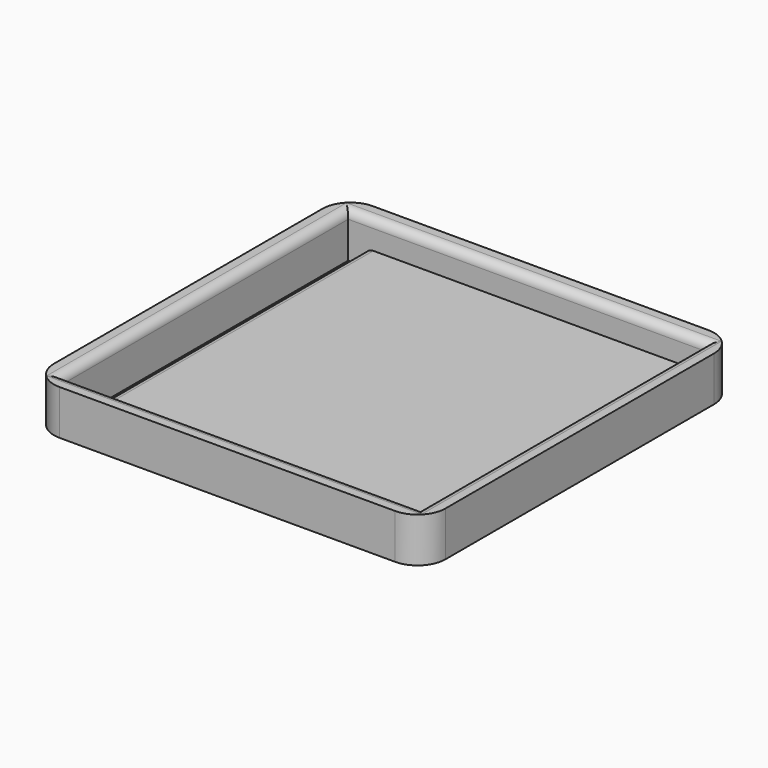
from build123d import *

# Parameters (mm, degrees)
F1_DEPTH = 3
F2_DEPTH = 8
F3_R     = 5
F4_R     = 1.5


with BuildPart() as f1:
    # F0 (on Top) → F1 (new body)
    with BuildSketch(Plane.XY):
        Polygon((45, 16), (16, 16), (-13, 16), (-13, -16), (-13, -48), (16, -48), (45, -48), (45, -16), align=None)
    extrude(amount=F1_DEPTH)

    # F0 (on Top) → F2 (join)
    with BuildSketch(Plane.XY):
        Polygon((-13, 16), (16, 16), (16, 19), (-19, 19), (-19, -16), (-16, -16), (-16, 16), align=None)
        Polygon((16, 19), (16, 16), (45, 16), (48, 16), (48, -16), (48, -48), (45, -48), (16, -48), (-13, -48), (-16, -48), (-16, -16), (-19, -16), (-19, -51), (16, -51), (51, -51), (51, -16), (51, 19), align=None)
    extrude(amount=F2_DEPTH)

    # F3
    f3_edges = [f1.edges().sort_by_distance(p)[0] for p in [
        (-19, 19, 4),
        (-19, -51, 4),
        (51, -51, 4),
        (51, 19, 4),
    ]]
    fillet(f3_edges, radius=F3_R)

    # F4
    f4_edges = [f1.edges().sort_by_distance(p)[0] for p in [
        (-16, -16, 8),
        (16, 16, 8),
        (48, -16, 8),
        (16, -48, 8),
        (-13, -16, 3),
        (45, -16, 3),
    ]]
    fillet(f4_edges, radius=F4_R)


solid = f1.part
